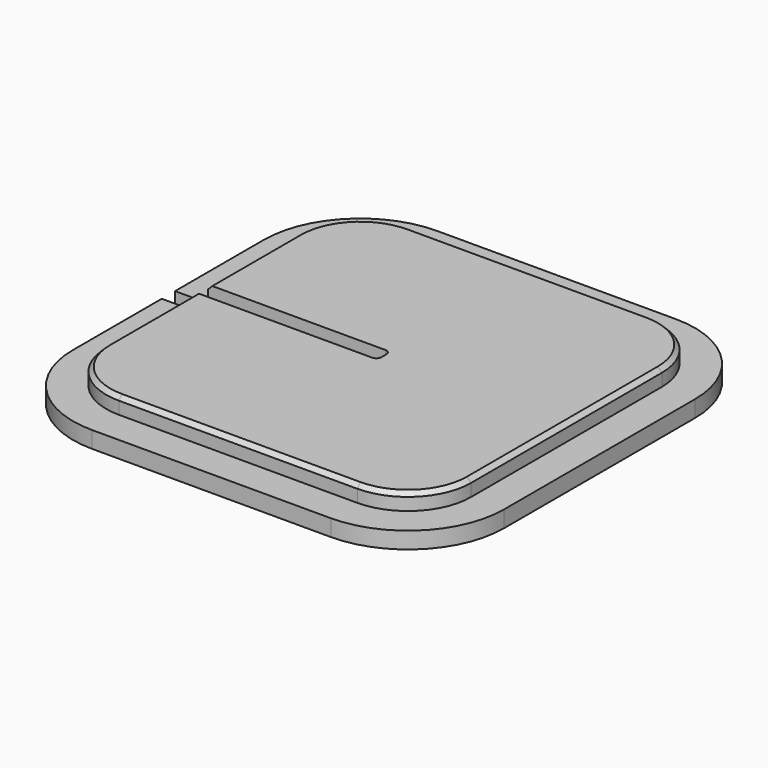
from build123d import *

# Parameters (mm, degrees)
F1_DEPTH = 1
F2_DEPTH = 2
F3_W     = 13
F3_H     = 0.5
F4_DEPTH = 25.4
F5_SIZE  = 0.25
F6_R     = 0.3175


with BuildPart() as f1:
    # F0 (on Top) → F1 (new body)
    with BuildSketch(Plane.XY):
        with BuildLine():
            Line((13, -7.19), (13, 7.19))
            ThreePointArc((13, 7.19), (11.29829, 11.29829), (7.19, 13))
            Line((7.19, 13), (-7.19, 13))
            ThreePointArc((-7.19, 13), (-11.29829, 11.29829), (-13, 7.19))
            Line((-13, 7.19), (-13, -7.19))
            ThreePointArc((-13, -7.19), (-11.29829, -11.29829), (-7.19, -13))
            Line((-7.19, -13), (7.19, -13))
            ThreePointArc((7.19, -13), (11.29829, -11.29829), (13, -7.19))
        make_face()
        with BuildLine():
            ThreePointArc((-11, 7.19), (-9.884077, 9.884077), (-7.19, 11))
            Line((-7.19, 11), (7.19, 11))
            ThreePointArc((7.19, 11), (9.884077, 9.884077), (11, 7.19))
            Line((11, 7.19), (11, -7.19))
            ThreePointArc((11, -7.19), (9.884077, -9.884077), (7.19, -11))
            Line((7.19, -11), (-7.19, -11))
            ThreePointArc((-7.19, -11), (-9.884077, -9.884077), (-11, -7.19))
            Line((-11, -7.19), (-11, 7.19))
        make_face(mode=Mode.SUBTRACT)
    extrude(amount=F1_DEPTH)

    # F0 (on Top) → F2 (join)
    with BuildSketch(Plane.XY):
        with BuildLine():
            Line((7.19, 11), (-7.19, 11))
            ThreePointArc((-7.19, 11), (-9.884077, 9.884077), (-11, 7.19))
            Line((-11, 7.19), (-11, -7.19))
            ThreePointArc((-11, -7.19), (-9.884077, -9.884077), (-7.19, -11))
            Line((-7.19, -11), (7.19, -11))
            ThreePointArc((7.19, -11), (9.884077, -9.884077), (11, -7.19))
            Line((11, -7.19), (11, 7.19))
            ThreePointArc((11, 7.19), (9.884077, 9.884077), (7.19, 11))
        make_face()
    extrude(amount=F2_DEPTH)

    # F3 (on face) → F4 (cut)
    with BuildSketch(Plane.XY):
        with Locations((-6.5, -0.25)):
            Rectangle(F3_W, F3_H)
        with Locations((-6.5, 0.25)):
            Rectangle(F3_W, F3_H)
    extrude(amount=F4_DEPTH, mode=Mode.SUBTRACT)

    # F5
    f5_edges = [f1.edges().sort_by_distance(p)[0] for p in [
        (-11, -3.845, 2),
        (-11, 3.845, 2),
        (-9.884077, 9.884077, 2),
        (0, 11, 2),
        (11, 0, 2),
        (9.884077, -9.884077, 2),
        (0, -11, 2),
        (-9.884077, -9.884077, 2),
        (9.884077, 9.884077, 2),
    ]]
    chamfer(f5_edges, length=F5_SIZE)

    # F6
    f6_edges = [f1.edges().sort_by_distance(p)[0] for p in [
        (0, -0.5, 1),
        (0, 0.5, 1),
    ]]
    fillet(f6_edges, radius=F6_R)


solid = f1.part
